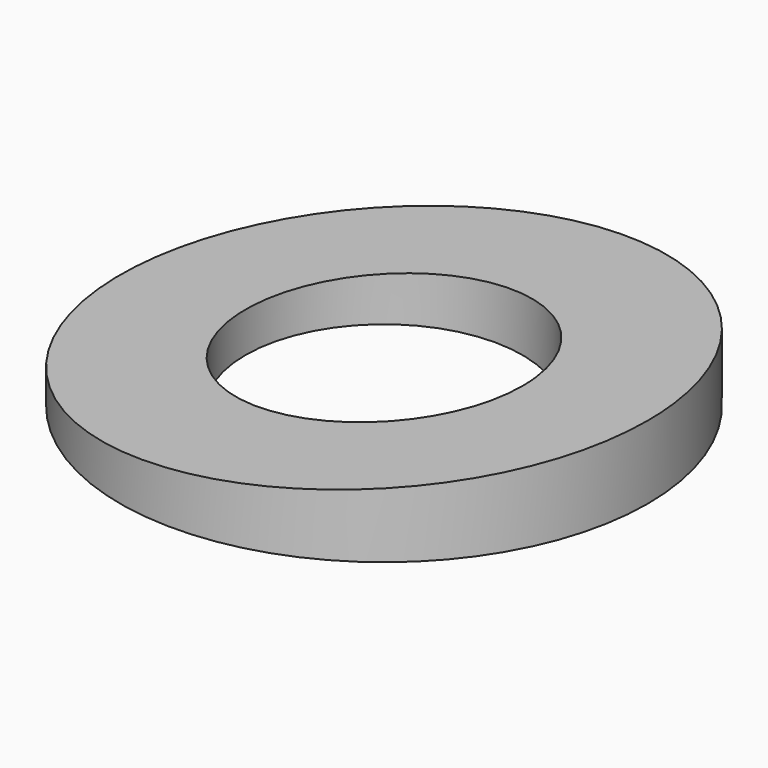
from build123d import *

# Parameters (mm, degrees)
F0_R     = 10
F1_DEPTH = 5
F2_R     = 5.25
F3_DEPTH = 5.001
F6_DEPTH = 50


with BuildPart() as f1:
    # F0 (on Top) → F1 (new body)
    with BuildSketch(Plane.XY):
        Circle(F0_R)
    extrude(amount=F1_DEPTH)

    # F2 (on face) → F3 (cut, through all)
    with BuildSketch(Plane.XY.offset(5)):
        Circle(F2_R)
    extrude(amount=-F3_DEPTH, mode=Mode.SUBTRACT)

    # F5 (on offset) → F6 (cut)
    with BuildSketch(Plane.XZ.offset(25)):
        Polygon((-11.632799, 5.720356), (-23.740912, 0), (45.850801, 5.720356), align=None)
    extrude(amount=-F6_DEPTH, mode=Mode.SUBTRACT)


solid = f1.part
